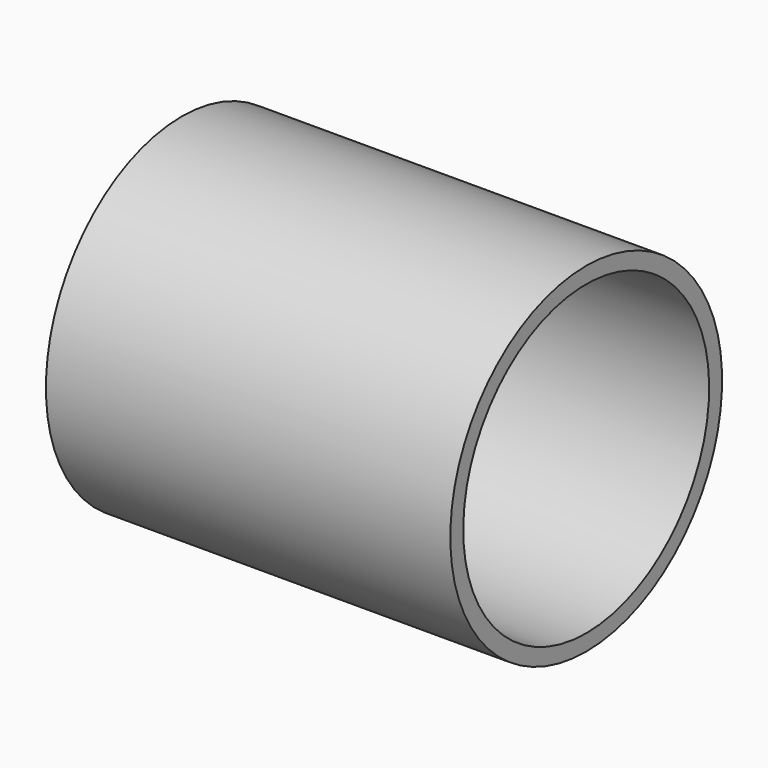
from build123d import *

# Parameters (mm, degrees)
CYLINDER009_R           = 9.5
CYLINDER009_DEPTH       = 25
CYLINDER009_PITCH_ANGLE = 90
CYLINDER007_R           = 10.5
CYLINDER007_DEPTH       = 25
CYLINDER007_PITCH_ANGLE = 90


with BuildPart() as cylinder007:
    # Cylinder009 → Cylinder009 (new body)
    with BuildSketch(Plane.XY):
        Circle(CYLINDER009_R)
    extrude(amount=CYLINDER009_DEPTH)


with BuildPart() as cylinder007_1:
    # Cylinder009 pitch: moved
    add(cylinder007.part.rotate(Axis((0, 0, 0), (0, 1, 0)), CYLINDER009_PITCH_ANGLE))


with BuildPart() as cylinder007_2:
    # Cylinder009 placement: moved
    add(cylinder007_1.part.moved(Location((156, 0, 0))))


with BuildPart() as cut004:
    # Cylinder007 → Cylinder007 (new body)
    with BuildSketch(Plane.XY):
        Circle(CYLINDER007_R)
    extrude(amount=CYLINDER007_DEPTH)


with BuildPart() as cut004_1:
    # Cylinder007 pitch: moved
    add(cut004.part.rotate(Axis((0, 0, 0), (0, 1, 0)), CYLINDER007_PITCH_ANGLE))


with BuildPart() as cut004_2:
    # Cylinder007 placement: moved
    add(cut004_1.part.moved(Location((156, 0, 0))))

    # Cut004: cut Cylinder007
    add(cylinder007_2.part, mode=Mode.SUBTRACT)


solid = cut004_2.part
